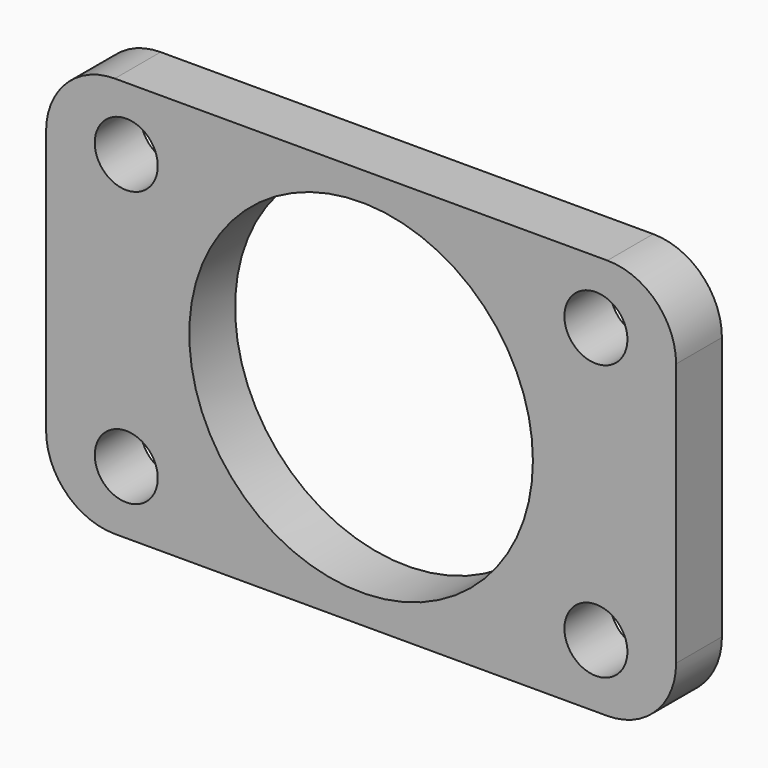
from build123d import *

# Parameters (mm, degrees)
F0_R     = 30
F1_DEPTH = 10
F2_D     = 11


with BuildPart() as f1:
    # F0 (on Front) → F1 (new body)
    with BuildSketch(Plane.XZ):
        with BuildLine():
            ThreePointArc((55, 23), (51.485281, 31.485281), (43, 35))
            Line((43, 35), (-43, 35))
            ThreePointArc((-43, 35), (-51.485281, 31.485281), (-55, 23))
            Line((-55, 23), (-55, -23))
            ThreePointArc((-55, -23), (-51.485281, -31.485281), (-43, -35))
            Line((-43, -35), (43, -35))
            ThreePointArc((43, -35), (51.485281, -31.485281), (55, -23))
            Line((55, -23), (55, 23))
        make_face()
        Circle(F0_R, mode=Mode.SUBTRACT)
    extrude(amount=F1_DEPTH)

    # F2 (through all)
    with Locations(Plane(origin=(0, 0, 0), x_dir=(1, 0, 0), z_dir=(0, 1, 0))):
        with Locations((-41, 24), (41, 24), (41, -24), (-41, -24)):
            Hole(F2_D / 2)


solid = f1.part
